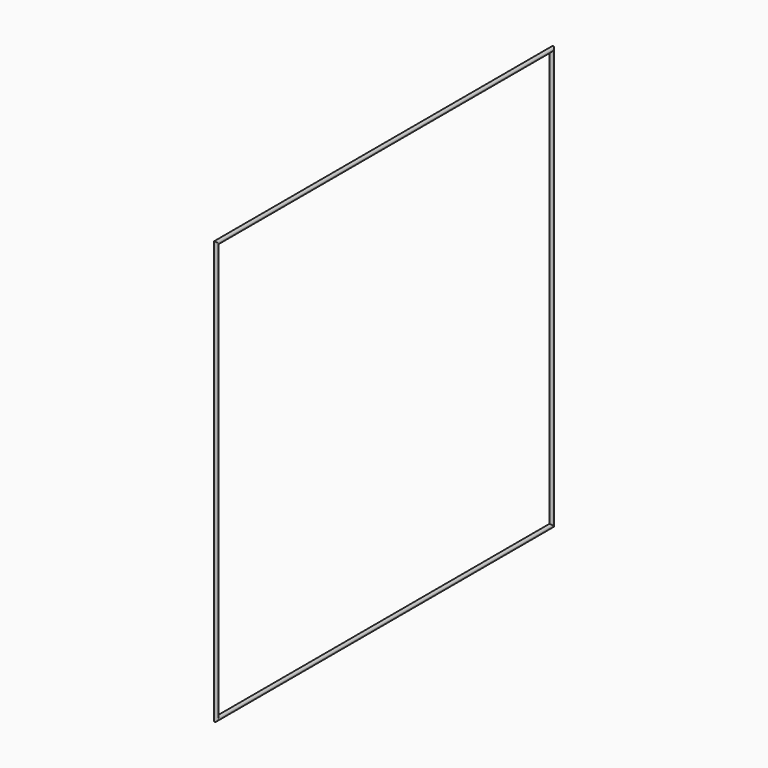
from build123d import *

# Parameters (mm, degrees)
F1_R = 1.5875


with BuildPart() as f2:
    # F2: sweep along a path in F0
    with BuildLine(Plane.YZ) as f2_path:
        Line((0, 0), (0, 355.6))
        Line((0, 355.6), (355.6, 355.6))
        Line((355.6, 355.6), (355.6, 0))
        Line((355.6, 0), (0, 0))
    # F1 (on Top) → F2 (sweep)
    with BuildSketch(Plane.XY):
        Circle(F1_R)
    sweep(path=f2_path.line, transition=Transition.RIGHT)


solid = f2.part
